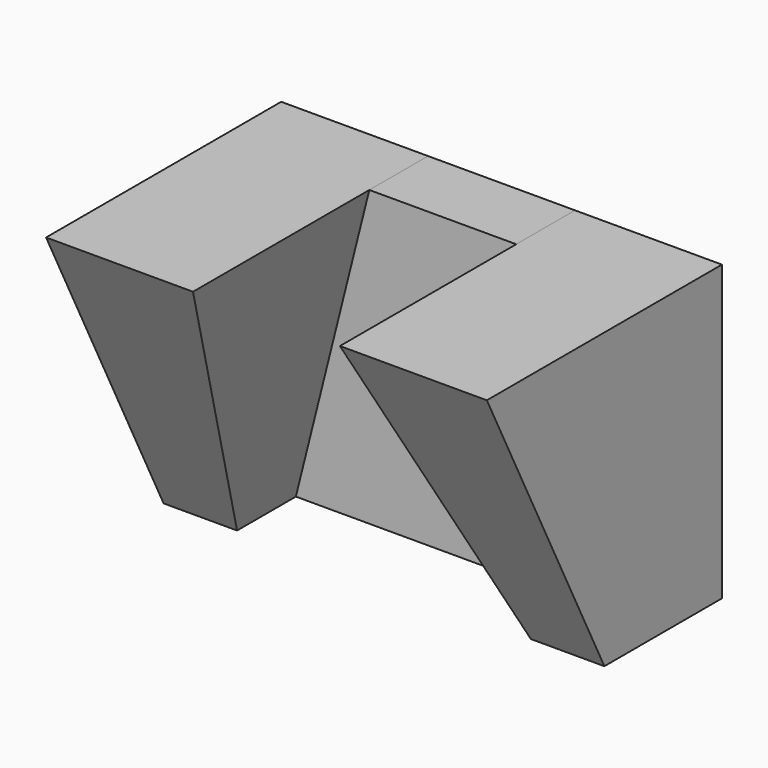
from build123d import *

# Parameters (mm, degrees)
F1_DEPTH = 40
F2_DEPTH = 40
F3_DEPTH = 10
F5_DEPTH = 25
F7_DEPTH = 25


with BuildPart() as f1:
    # F0 (on Front) → F1 (new body)
    with BuildSketch(Plane.XZ):
        Polygon((-20, 40), (-20, 0), (-10, 0), (0, 40), align=None)
    extrude(amount=F1_DEPTH)

    # F4 (on face) → F5 (cut)
    with BuildSketch(Plane(origin=(-20, 0, 0), x_dir=(0, -1, 0), z_dir=(-1, 0, 0))):
        Polygon((40, 40), (20, 0), (30.000001, 0), (40, 0), align=None)
    extrude(amount=-F5_DEPTH, mode=Mode.SUBTRACT)


with BuildPart() as f2:
    # F0 (on Front) → F2 (new body)
    with BuildSketch(Plane.XZ):
        Polygon((20, 40), (30, 0), (40, 0), (40, 40), align=None)
    extrude(amount=F2_DEPTH)

    # F6 (on face) → F7 (cut)
    with BuildSketch(Plane.YZ.offset(40)):
        Polygon((-30, 0), (-20, 0), (-40, 40), (-40, 0), align=None)
    extrude(amount=-F7_DEPTH, mode=Mode.SUBTRACT)


with BuildPart() as f3:
    # F0 (on Front) → F3 (new body)
    with BuildSketch(Plane.XZ):
        Polygon((0, 40), (-10, 0), (30, 0), (20, 40), align=None)
    extrude(amount=F3_DEPTH)


solid = Compound([f1.part, f2.part, f3.part])
